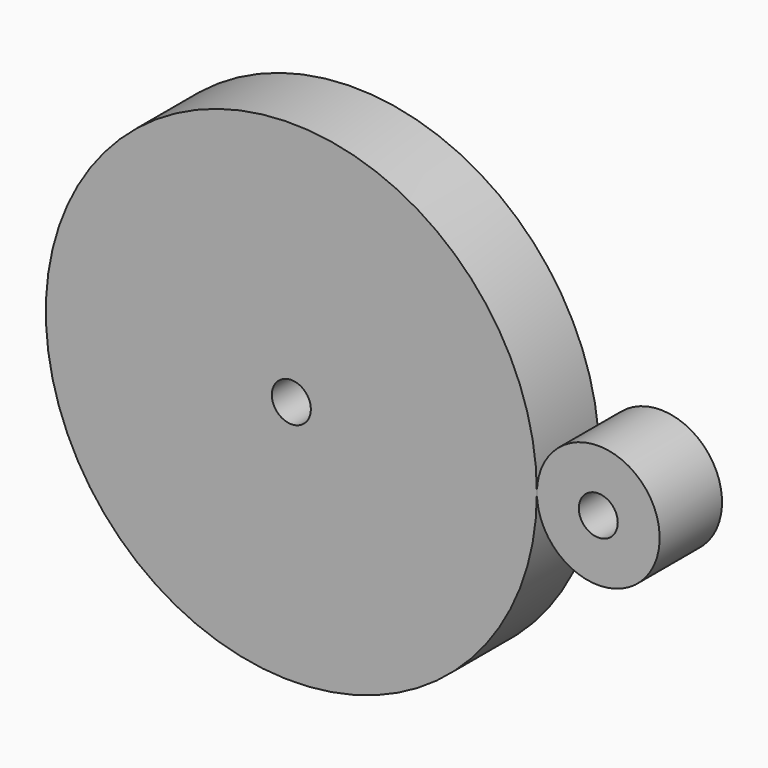
from build123d import *

# Parameters (mm, degrees)
F0_R     = 20
F0_R_2   = 1.5875
F1_DEPTH = 6.35


with BuildPart() as f1:
    # F0 (on Front) → F1 (new body)
    with BuildSketch(Plane.XZ):
        Circle(F0_R)
        Circle(F0_R_2, mode=Mode.SUBTRACT)
        with BuildLine():
            ThreePointArc((30, 0), (25, 5), (20, 0))
            ThreePointArc((20, 0), (25, -5), (30, 0))
        make_face()
        with Locations((25, 0)):
            Circle(F0_R_2, mode=Mode.SUBTRACT)
    extrude(amount=F1_DEPTH)


solid = f1.part
